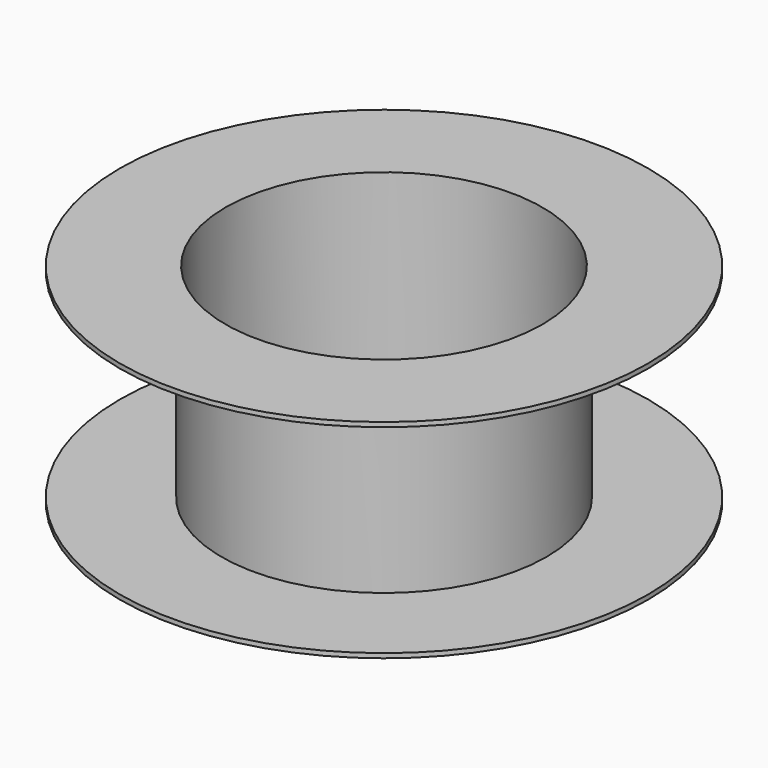
from build123d import *

# Parameters (mm, degrees)
F0_R     = 2.032
F1_DEPTH = 0.035
F2_R     = 1.25
F3_DEPTH = 1.53
F4_R     = 2.032
F5_DEPTH = 0.035
F6_R     = 1.2192
F7_DEPTH = 1.601


with BuildPart() as f1:
    # F0 (on Top) → F1 (new body)
    with BuildSketch(Plane.XY):
        Circle(F0_R)
    extrude(amount=F1_DEPTH)

    # F2 (on face) → F3 (join)
    with BuildSketch(Plane.XY.offset(0.035)):
        Circle(F2_R)
    extrude(amount=F3_DEPTH)

    # F4 (on face) → F5 (join)
    with BuildSketch(Plane.XY.offset(1.565)):
        Circle(F4_R)
    extrude(amount=F5_DEPTH)

    # F6 (on Top) → F7 (cut, through all)
    with BuildSketch(Plane.XY):
        Circle(F6_R)
    extrude(amount=F7_DEPTH, mode=Mode.SUBTRACT)


solid = f1.part
